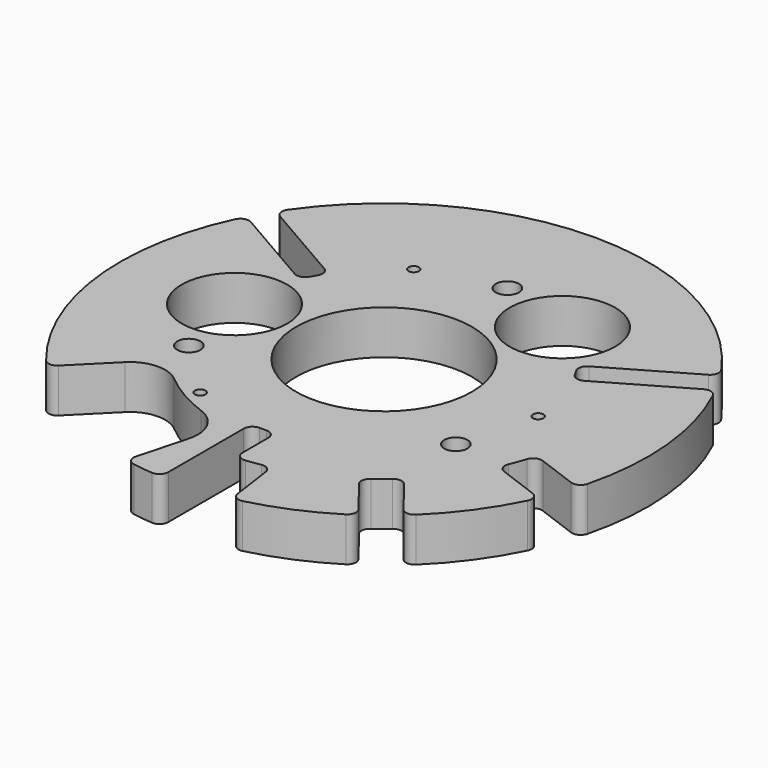
from build123d import *

# Parameters (mm, degrees)
F0_R     = 3
F0_R_2   = 6.605
F0_R_3   = 30
F0_R_4   = 50
F1_DEPTH = 25
F2_R     = 5
F3_R     = 20


with BuildPart() as f1:
    # F0 (on Top) → F1 (new body)
    with BuildSketch(Plane.XY):
        with BuildLine():
            Line((-7.025, -149.835408), (-7.025, -85.932344))
            Line((-7.025, -85.932344), (7.025, -85.932344))
            Line((7.025, -85.932344), (7.025, -114.785232))
            ThreePointArc((7.025, -114.785232), (16.492462, -113.811242), (25.846962, -112.057729))
            Line((25.846962, -112.057729), (30.732203, -146.818022))
            ThreePointArc((30.732203, -146.818022), (58.765568, -138.009449), (84.543744, -123.904622))
            Line((84.543744, -123.904622), (62.870433, -96.292828))
            ThreePointArc((62.870433, -96.292828), (71.005576, -90.461087), (78.602796, -83.944032))
            Line((78.602796, -83.944032), (100.276107, -111.555826))
            ThreePointArc((100.276107, -111.555826), (121.248185, -88.311254), (136.938486, -61.219694))
            Line((136.938486, -61.219694), (104.009355, -49.061736))
            ThreePointArc((104.009355, -49.061736), (107.881617, -39.831604), (110.936591, -30.299716))
            Line((110.936591, -30.299716), (143.865722, -42.457674))
            ThreePointArc((143.865722, -42.457674), (149.325238, 14.211734), (133.273769, 68.833875))
            Line((133.273769, 68.833875), (77.932093, 36.882344))
            Line((77.932093, 36.882344), (70.907093, 49.050001))
            Line((70.907093, 49.050001), (126.248769, 81.001532))
            ThreePointArc((126.248769, 81.001532), (0, 150), (-126.248769, 81.001532))
            Line((-126.248769, 81.001532), (-70.907093, 49.050001))
            Line((-70.907093, 49.050001), (-77.932093, 36.882344))
            Line((-77.932093, 36.882344), (-133.273769, 68.833875))
            ThreePointArc((-133.273769, 68.833875), (-148.903864, -18.100808), (-112.90112, -98.758985))
            Line((-112.90112, -98.758985), (-73.873014, -59.730878))
            ThreePointArc((-73.873014, -59.730878), (-47.5, -82.272413), (-14.791951, -93.841346))
            Line((-14.791951, -93.841346), (-29.077229, -147.154731))
            ThreePointArc((-29.077229, -147.154731), (-18.100808, -148.903864), (-7.025, -149.835408))
        make_face()
        with Locations((-43.815, -75.889806)):
            Circle(F0_R, mode=Mode.SUBTRACT)
        with Locations((-75.889806, -43.815)):
            Circle(F0_R_2, mode=Mode.SUBTRACT)
        with Locations((-85, 0)):
            Circle(F0_R_3, mode=Mode.SUBTRACT)
        Circle(F0_R_4, mode=Mode.SUBTRACT)
        with Locations((75.889806, -43.815)):
            Circle(F0_R_2, mode=Mode.SUBTRACT)
        with Locations((87.63, 0)):
            Circle(F0_R, mode=Mode.SUBTRACT)
        with Locations((-43.815, 75.889806)):
            Circle(F0_R, mode=Mode.SUBTRACT)
        with Locations((42.5, 73.612159)):
            Circle(F0_R_3, mode=Mode.SUBTRACT)
        with Locations((0, 87.63)):
            Circle(F0_R_2, mode=Mode.SUBTRACT)
    extrude(amount=F1_DEPTH)

    # F2
    f2_edges = [f1.edges().sort_by_distance(p)[0] for p in [
        (-77.932093, 36.882344, 12.5),
        (-70.907093, 49.050001, 12.5),
        (70.907093, 49.050001, 12.5),
        (77.932093, 36.882344, 12.5),
        (110.936591, -30.299716, 12.5),
        (104.009355, -49.061736, 12.5),
        (78.602796, -83.944032, 12.5),
        (62.870433, -96.292828, 12.5),
        (25.846962, -112.057729, 12.5),
        (7.025, -114.785232, 12.5),
        (7.025, -85.932344, 12.5),
        (-7.025, -85.932344, 12.5),
        (-7.025, -149.835408, 12.5),
        (-29.077229, -147.154731, 12.5),
        (-112.90112, -98.758985, 12.5),
        (30.732203, -146.818022, 12.5),
        (84.543744, -123.904622, 12.5),
        (100.276107, -111.555826, 12.5),
        (136.938486, -61.219694, 12.5),
        (143.865722, -42.457674, 12.5),
        (133.273769, 68.833875, 12.5),
        (126.248769, 81.001532, 12.5),
        (-126.248769, 81.001532, 12.5),
        (-133.273769, 68.833875, 12.5),
    ]]
    fillet(f2_edges, radius=F2_R)

    # F3
    f3_edges = [f1.edges().sort_by_distance(p)[0] for p in [
        (-73.873014, -59.730878, 12.5),
        (-14.791951, -93.841346, 12.5),
    ]]
    fillet(f3_edges, radius=F3_R)


solid = f1.part
